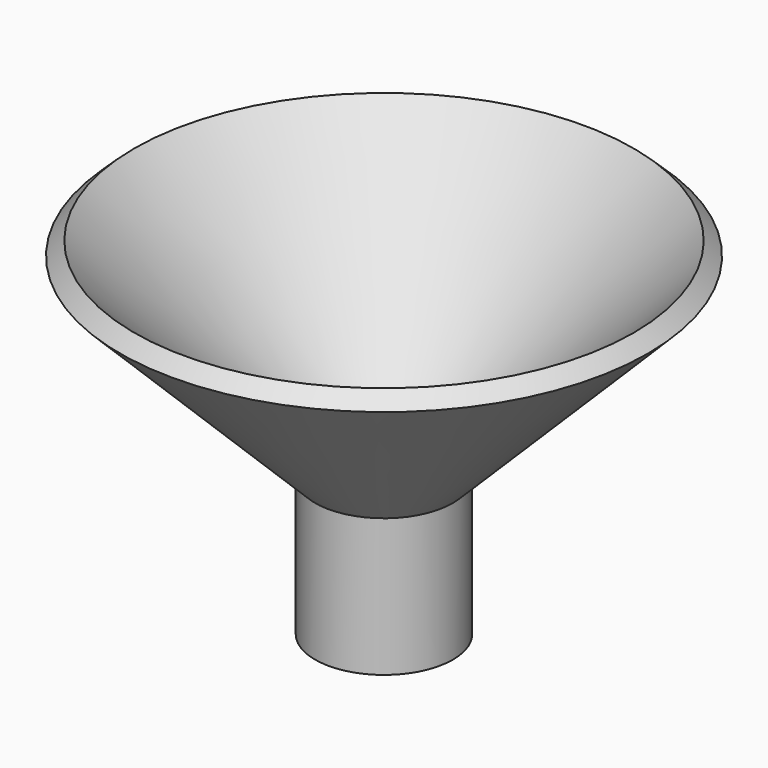
from build123d import *

# Parameters (mm, degrees)
F2_R     = 10.16
F3_DEPTH = 50.8
F4_R     = 10.16
F5_DEPTH = 25.4
F6_DEPTH = 25.4


with BuildPart() as f1:
    # F0 (on Front) → F1 (revolve)
    with BuildSketch(Plane.XZ):
        Polygon((0, 0), (35.9210230905, 35.921025878), (33.2881103987, 38.4245585941), (-2.765778685, 2.3706667125), (-12.7, 2.3706667125), (-12.7, -25.4), (0, -25.4), align=None)
    revolve(axis=Axis((-12.7, 0, -11.5146666437), (0, 0, 1)))

    # F2 (on Top) → F3 (cut)
    with BuildSketch(Plane.XY):
        with Locations((-12.6435561106, 0)):
            Circle(F2_R)
    extrude(amount=-F3_DEPTH, mode=Mode.SUBTRACT)

    # F4 (on Top) → F5 (cut)
    with BuildSketch(Plane.XY):
        with Locations((-12.4460002407, 0)):
            Circle(F4_R)
    extrude(amount=-F5_DEPTH, mode=Mode.SUBTRACT)

    # F6 (cut): a face of the model
    f6_faces = [f1.faces().sort_by_distance(p)[0] for p in [
        (-12.7, 0, 2.3706667125),
    ]]
    extrude(f6_faces, amount=-F6_DEPTH, mode=Mode.SUBTRACT)


solid = f1.part
